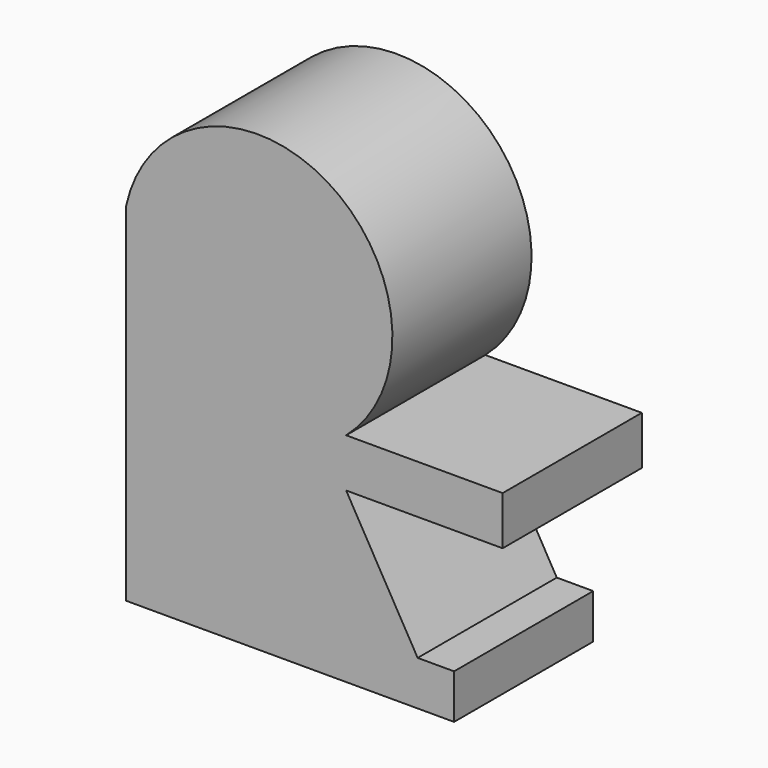
from build123d import *

# Parameters (mm, degrees)
F1_DEPTH = 25.4


with BuildPart() as f1:
    # F0 (on Front) → F1 (new body)
    with BuildSketch(Plane.XZ):
        with BuildLine():
            Line((0, 50.843798), (0, 0))
            Line((0, 0), (47.887757, 0))
            Line((47.887757, 0), (47.887757, 6.503276))
            Line((47.887757, 6.503276), (42.566899, 6.503276))
            Line((42.566899, 6.503276), (32.122239, 24.633622))
            Line((32.122239, 24.633622), (54.982245, 24.633622))
            Line((54.982245, 24.633622), (54.982245, 31.728104))
            Line((54.982245, 31.728104), (32.122239, 31.728104))
            ThreePointArc((32.122239, 31.728104), (29.268462, 63.479726), (0, 50.843798))
        make_face()
    extrude(amount=F1_DEPTH)


solid = f1.part
